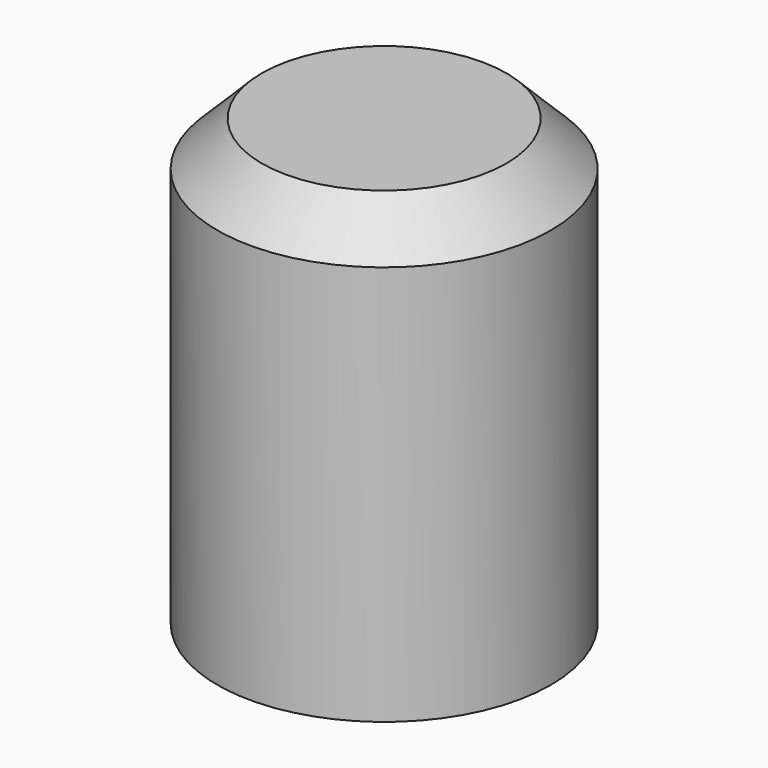
from build123d import *

# Parameters (mm, degrees)
F0_R     = 7.5
F1_DEPTH = 20
F2_SIZE  = 2
F3_R     = 3
F4_DEPTH = 10


with BuildPart() as f1:
    # F0 (on Top) → F1 (new body)
    with BuildSketch(Plane.XY):
        Circle(F0_R)
    extrude(amount=F1_DEPTH)

    # F2
    f2_edges = [f1.edges().sort_by_distance(p)[0] for p in [
        (-7.5, 0, 20),
    ]]
    chamfer(f2_edges, length=F2_SIZE)

    # F3 (on face) → F4 (cut)
    with BuildSketch(Plane(origin=(0, 0, 0), x_dir=(1, 0, 0), z_dir=(0, 0, -1))):
        Circle(F3_R)
    extrude(amount=-F4_DEPTH, mode=Mode.SUBTRACT)


solid = f1.part
